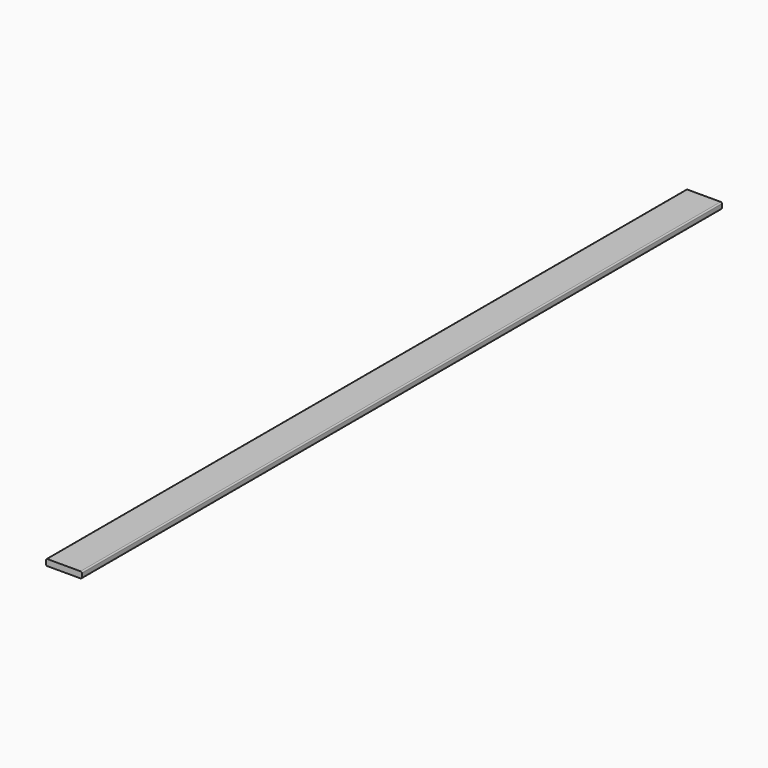
from build123d import *

# Parameters (mm, degrees)
F1_DEPTH = 1524


with BuildPart() as f1:
    # F0 (on Front) → F1 (new body, symmetric)
    with BuildSketch(Plane.XZ):
        with BuildLine():
            Line((63.246, 11.938), (-63.246, 11.938))
            ThreePointArc((-63.246, 11.938), (-66.658497, 10.524497), (-68.072, 7.112))
            Line((-68.072, 7.112), (-68.072, -7.112))
            ThreePointArc((-68.072, -7.112), (-66.658497, -10.524497), (-63.246, -11.938))
            Line((-63.246, -11.938), (63.246, -11.938))
            ThreePointArc((63.246, -11.938), (66.658497, -10.524497), (68.072, -7.112))
            Line((68.072, -7.112), (68.072, 7.112))
            ThreePointArc((68.072, 7.112), (66.658497, 10.524497), (63.246, 11.938))
        make_face()
    extrude(amount=F1_DEPTH, both=True)


solid = f1.part
